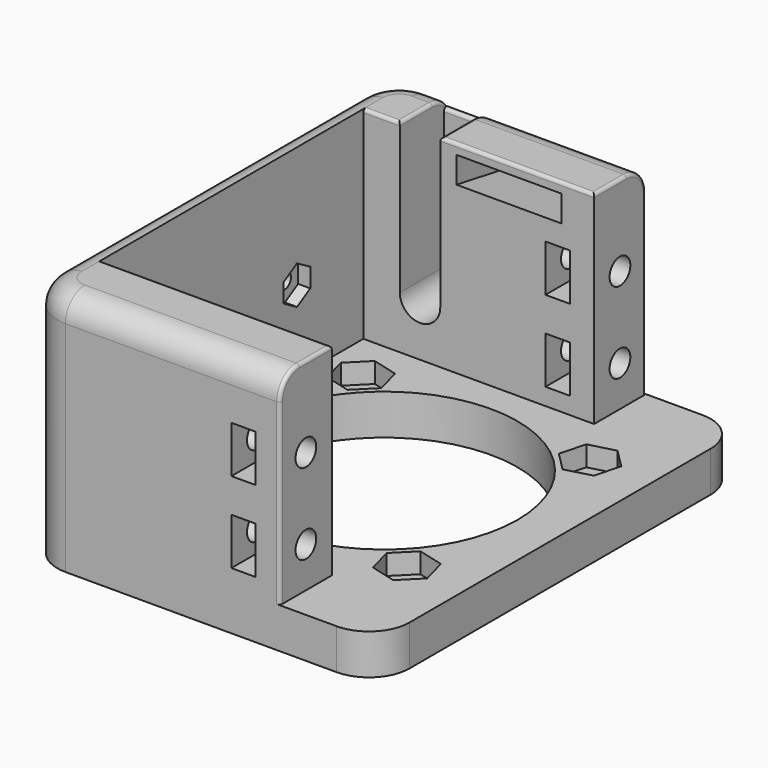
from build123d import *

# Parameters (mm, degrees)
PAD004_DEPTH    = 5
PAD003_DEPTH    = 20
POCKET018_DEPTH = 20
SKETCH024_R     = 16.5
POCKET017_DEPTH = 5
SKETCH017_R     = 1.6
POCKET014_DEPTH = 5
POCKET019_DEPTH = 2.5
SKETCH020_W     = 3
SKETCH020_H     = 5.8
POCKET013_DEPTH = 56.5
SKETCH022_R     = 1.6
POCKET020_DEPTH = 18
SKETCH019_R     = 0.95
POCKET016_DEPTH = 3
POCKET015_DEPTH = 1.5
PAD_DEPTH       = 5
FILLET_R        = 2.99
POCKET_DEPTH    = 6.8
FILLET001_R     = 0.4
POCKET021_DEPTH = 13


with BuildPart() as part:
    # Sketch023 → Pad004 (new body)
    with BuildSketch(Plane.XY):
        with BuildLine():
            Line((-16.75, 28.25), (16.75, 28.25))
            ThreePointArc((21.75, 23.25), (20.285534, 26.785534), (16.75, 28.25))
            Line((21.75, 23.25), (21.75, -23.25))
            ThreePointArc((16.75, -28.25), (20.285534, -26.785534), (21.75, -23.25))
            Line((16.75, -28.25), (-16.75, -28.25))
            ThreePointArc((-21.75, -23.25), (-20.285534, -26.785534), (-16.75, -28.25))
            Line((-21.75, -23.25), (-21.75, 23.25))
            ThreePointArc((-16.75, 28.25), (-20.285534, 26.785534), (-21.75, 23.25))
        make_face()
    extrude(amount=PAD004_DEPTH)

    # Pad004 Face10 → Pad003 (add)
    with BuildSketch(Plane(origin=(0, 0, 5), x_dir=(0, 1, 0), z_dir=(0, 0, 1))):
        with BuildLine():
            Line((23.25, 21.75), (-23.25, 21.75))
            ThreePointArc((-23.25, 21.75), (-26.785534, 20.285534), (-28.25, 16.75))
            Line((-28.25, 16.75), (-28.25, -16.75))
            ThreePointArc((-28.25, -16.75), (-26.785534, -20.285534), (-23.25, -21.75))
            Line((-23.25, -21.75), (23.25, -21.75))
            ThreePointArc((23.25, -21.75), (26.785534, -20.285534), (28.25, -16.75))
            Line((28.25, -16.75), (28.25, 16.75))
            ThreePointArc((28.25, 16.75), (26.785534, 20.285534), (23.25, 21.75))
        make_face()
    extrude(amount=PAD003_DEPTH)

    # Sketch026 (on Face13 of Pad003) → Pocket018 (cut)
    with BuildSketch(Plane.XY.offset(25)):
        Polygon((9.75, 28.25), (9.75, 20.25), (-18.75, 20.25), (-18.75, -20.25), (9.75, -20.25), (9.75, -28.25), (21.75, -28.25), (21.75, 28.25), align=None)
    extrude(amount=-POCKET018_DEPTH, mode=Mode.SUBTRACT)

    # Sketch024 (on Face14 of Pocket018) → Pocket017 (cut)
    with BuildSketch(Plane.XY.offset(5)):
        Circle(SKETCH024_R)
    extrude(amount=-POCKET017_DEPTH, mode=Mode.SUBTRACT)

    # Sketch017 (on Face15 of Pocket017) → Pocket014 (cut)
    with BuildSketch(Plane.XY.offset(5)):
        with Locations((-14.142136, 14.142136)):
            Circle(SKETCH017_R)
        with Locations((14.142136, 14.142136)):
            Circle(SKETCH017_R)
        with Locations((14.142136, -14.142136)):
            Circle(SKETCH017_R)
        with Locations((-14.142136, -14.142136)):
            Circle(SKETCH017_R)
    extrude(amount=-POCKET014_DEPTH, mode=Mode.SUBTRACT)

    # Sketch021 (on Face19 of Pocket014) → Pocket019 (cut)
    with BuildSketch(Plane.XY.offset(5)):
        Polygon((-11.81512, 16.469151), (-14.993882, 17.320898), (-17.320898, 14.993882), (-16.469151, 11.81512), (-13.290389, 10.963374), (-10.963374, 13.290389), align=None)
        Polygon((14.993882, 17.320898), (11.81512, 16.469151), (10.963374, 13.290389), (13.290389, 10.963374), (16.469151, 11.81512), (17.320898, 14.993882), align=None)
        Polygon((-13.290389, -10.963374), (-16.469151, -11.81512), (-17.320898, -14.993882), (-14.993882, -17.320898), (-11.81512, -16.469151), (-10.963374, -13.290389), align=None)
        Polygon((16.469151, -11.81512), (13.290389, -10.963374), (10.963374, -13.290389), (11.81512, -16.469151), (14.993882, -17.320898), (17.320898, -14.993882), align=None)
    extrude(amount=-POCKET019_DEPTH, mode=Mode.SUBTRACT)

    # Sketch020 (on Face20 of Pocket019) → Pocket013 (cut)
    with BuildSketch(Plane.XZ.offset(28.25)):
        with Locations((5.25, 20)):
            Rectangle(SKETCH020_W, SKETCH020_H)
        with Locations((5.25, 10)):
            Rectangle(SKETCH020_W, SKETCH020_H)
    extrude(amount=-POCKET013_DEPTH, mode=Mode.SUBTRACT)

    # Sketch022 (on Face26 of Pocket013) → Pocket020 (cut)
    with BuildSketch(Plane.YZ.offset(9.75)):
        with Locations((-24.25, 20)):
            Circle(SKETCH022_R)
        with Locations((-24.25, 10)):
            Circle(SKETCH022_R)
        with Locations((24.25, 20)):
            Circle(SKETCH022_R)
        with Locations((24.25, 10)):
            Circle(SKETCH022_R)
    extrude(amount=-POCKET020_DEPTH, mode=Mode.SUBTRACT)

    # Sketch019 (on Face28 of Pocket020) → Pocket016 (cut)
    with BuildSketch(Plane.YZ.offset(-18.75)):
        with Locations((10, 15)):
            Circle(SKETCH019_R)
    extrude(amount=-POCKET016_DEPTH, mode=Mode.SUBTRACT)

    # Sketch018 (on Face29 of Pocket016) → Pocket015 (cut)
    with BuildSketch(Plane.YZ.offset(-18.75)):
        Polygon((12.05, 13.816432), (12.05, 16.183568), (10, 17.367136), (7.95, 16.183568), (7.95, 13.816432), (10, 12.632864), align=None)
    extrude(amount=-POCKET015_DEPTH, mode=Mode.SUBTRACT)

    # Pocket015 Face18 → Pad (add)
    with BuildSketch(Plane(origin=(-8.560893, 0, 25), x_dir=(0, 1, 0), z_dir=(0, 0, 1))):
        with BuildLine():
            ThreePointArc((-23.25, 13.189107), (-26.785534, 11.724641), (-28.25, 8.189107))
            Line((-28.25, 8.189107), (-28.25, -18.310893))
            Line((-28.25, -18.310893), (-20.25, -18.310893))
            Line((-20.25, -18.310893), (-20.25, 10.189107))
            Line((-20.25, 10.189107), (20.25, 10.189107))
            Line((20.25, 10.189107), (20.25, -18.310893))
            Line((20.25, -18.310893), (28.25, -18.310893))
            Line((28.25, -18.310893), (28.25, 8.189107))
            ThreePointArc((28.25, 8.189107), (26.785534, 11.724641), (23.25, 13.189107))
            Line((23.25, 13.189107), (-23.25, 13.189107))
        make_face()
    extrude(amount=PAD_DEPTH)

    # Fillet
    fillet_edges = [part.edges().sort_by_distance(p)[0] for p in [
        (-3.5, 28.25, 30),
    ]]
    fillet(fillet_edges, radius=FILLET_R)

    # Sketch (on Face40 of Fillet) → Pocket (cut)
    with BuildSketch(Plane.XZ.offset(-20.25)):
        with BuildLine():
            ThreePointArc((-14.25, 11.5), (-11.75, 9), (-9.25, 11.5))
            Line((-9.25, 30), (-9.25, 11.5))
            Line((-14.25, 30), (-9.25, 30))
            Line((-14.25, 11.5), (-14.25, 30))
        make_face()
    extrude(amount=-POCKET_DEPTH, mode=Mode.SUBTRACT)

    # Fillet001
    fillet001_edges = [part.edges().sort_by_distance(p)[0] for p in [
        (-11.75, 27.05, 29.404995),
        (-14.25, 22.755, 30),
        (-9.25, 22.755, 30),
        (-4.5, -20.25, 30),
        (-16.5, 20.25, 30),
        (0.25, 20.25, 30),
        (9.75, -22.755, 30),
        (9.75, 22.755, 30),
    ]]
    fillet(fillet001_edges, radius=FILLET001_R)

    # Sketch032 → Pocket021 (cut)
    with BuildSketch(Plane.YZ.offset(5.75)):
        Polygon((28.25, 24.089384), (28.25, 27.338749), (20.25, 28.749365), (20.25, 25.5), align=None)
    extrude(amount=-POCKET021_DEPTH, mode=Mode.SUBTRACT)


with BuildPart() as part_1:
    # Body005 placement: moved
    add(part.part.moved(Location((15, 0, -10))))


solid = part_1.part
